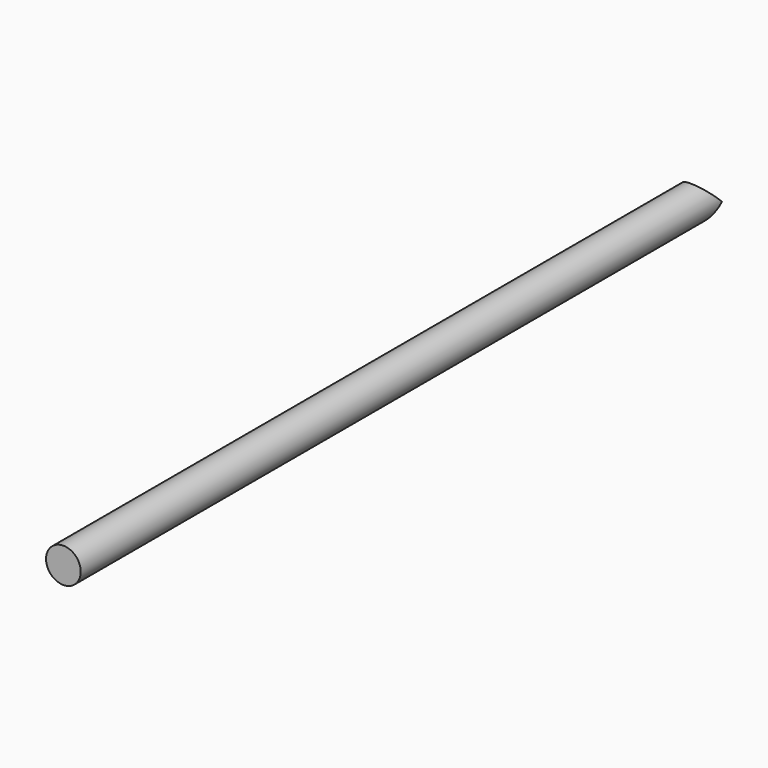
from build123d import *

# Parameters (mm, degrees)
F0_R     = 21
F1_DEPTH = 970
F3_DEPTH = 500


with BuildPart() as f1:
    # F0 (on Front) → F1 (new body)
    with BuildSketch(Plane.XZ):
        Circle(F0_R)
    extrude(amount=F1_DEPTH)

    # F2 (on Top) → F3 (cut, symmetric)
    with BuildSketch(Plane.XY):
        with BuildLine():
            ThreePointArc((21, 0), (0, 21), (-21, 0))
            Line((-21, 0), (0, 0))
            Line((0, 0), (21, 0))
        make_face()
        with BuildLine():
            Line((0, 0), (-21, 0))
            ThreePointArc((-21, 0), (0, -21), (21, 0))
            Line((21, 0), (0, 0))
        make_face()
    extrude(amount=F3_DEPTH, both=True, mode=Mode.SUBTRACT)


solid = f1.part
